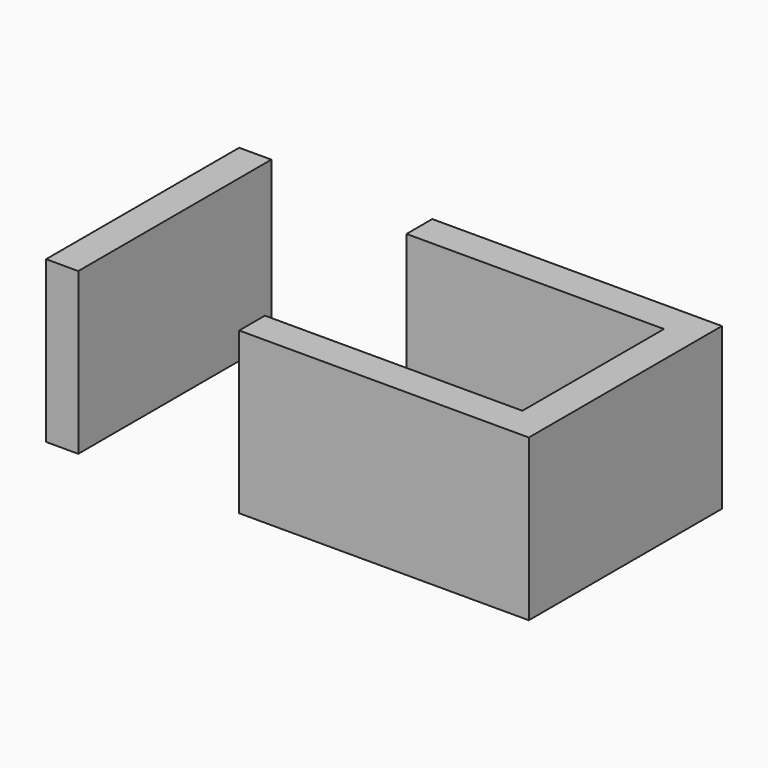
from build123d import *

# Parameters (mm, degrees)
F1_DEPTH = 25.4


with BuildPart() as f1:
    # F0 (on Top) → F1 (new body)
    with BuildSketch(Plane.XY):
        Polygon((5.08, 0), (0, 0), (0, -38.1), (5.08, -38.1), (5.08, -33.02), (5.08, -5.08), align=None)
        Polygon((76.2, 0), (30.48, 0), (30.48, -5.08), (71.12, -5.08), (71.12, -33.02), (30.48, -33.02), (30.48, -38.1), (76.2, -38.1), align=None)
    extrude(amount=F1_DEPTH)


solid = f1.part
